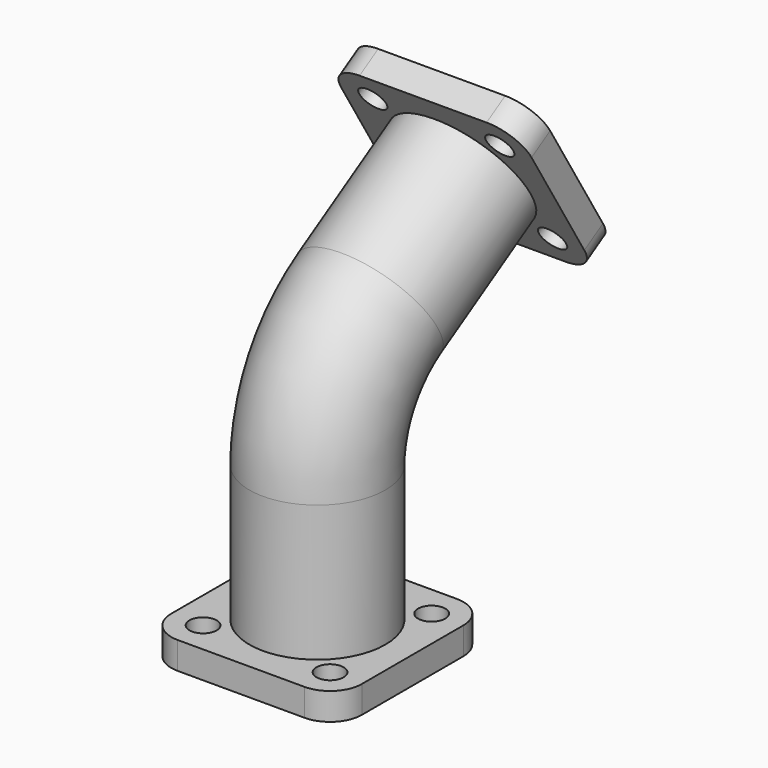
from build123d import *

# Parameters (mm, degrees)
F0_R     = 3
F0_R_2   = 12
F1_DEPTH = 6
F2_R     = 15
F2_R_2   = 12
F5_R     = 3
F5_R_2   = 12
F6_DEPTH = 6


with BuildPart() as f1:
    # F0 (on Top) → F1 (new body)
    with BuildSketch(Plane.XY):
        with BuildLine():
            Line((-14, -21), (14, -21))
            ThreePointArc((14, -21), (18.9497474683, -18.9497474683), (21, -14))
            Line((21, -14), (21, 14))
            ThreePointArc((21, 14), (18.9497474683, 18.9497474683), (14, 21))
            Line((14, 21), (-14, 21))
            ThreePointArc((-14, 21), (-18.9497474683, 18.9497474683), (-21, 14))
            Line((-21, 14), (-21, -14))
            ThreePointArc((-21, -14), (-18.9497474683, -18.9497474683), (-14, -21))
        make_face()
        with Locations((-14, -14)):
            Circle(F0_R, mode=Mode.SUBTRACT)
        with Locations((14, -14)):
            Circle(F0_R, mode=Mode.SUBTRACT)
        with Locations((-14, 14)):
            Circle(F0_R, mode=Mode.SUBTRACT)
        Circle(F0_R_2, mode=Mode.SUBTRACT)
        with Locations((14, 14)):
            Circle(F0_R, mode=Mode.SUBTRACT)
    extrude(amount=F1_DEPTH)

    # F4: sweep along a path in F3
    with BuildLine(Plane.YZ) as f4_path:
        Line((0, 6), (0, 36))
        ThreePointArc((0, 36), (3.8507080753, 50.7042351666), (14.4143021224, 61.6336891935))
        Line((14.4143021224, 61.6336891935), (40.0479913159, 77.2193870711))
    # F2 (on face) → F4 (sweep)
    with BuildSketch(Plane.XY.offset(6)):
        Circle(F2_R)
        Circle(F2_R_2, mode=Mode.SUBTRACT)
    sweep(path=f4_path.line)

    # F5 (on face) → F6 (join)
    with BuildSketch(Plane(origin=(0, 63.5173139927, 38.6195548528), x_dir=(-1, 0, 0), z_dir=(0, 0.8544563064, 0.5195232626))):
        with BuildLine():
            Line((-14, 24.1747291546), (14, 24.1747291546))
            ThreePointArc((14, 24.1747291546), (18.9497474683, 26.2249816863), (21, 31.1747291546))
            Line((21, 31.1747291546), (21, 59.1747291546))
            ThreePointArc((21, 59.1747291546), (18.9497474683, 64.1244766229), (14, 66.1747291546))
            Line((14, 66.1747291546), (-14, 66.1747291546))
            ThreePointArc((-14, 66.1747291546), (-18.9497474683, 64.1244766229), (-21, 59.1747291546))
            Line((-21, 59.1747291546), (-21, 31.1747291546))
            ThreePointArc((-21, 31.1747291546), (-18.9497474683, 26.2249816863), (-14, 24.1747291546))
        make_face()
        with Locations((-14, 31.1747291546)):
            Circle(F5_R, mode=Mode.SUBTRACT)
        with Locations((14, 31.1747291546)):
            Circle(F5_R, mode=Mode.SUBTRACT)
        with Locations((0, 45.1747291546)):
            Circle(F5_R_2, mode=Mode.SUBTRACT)
        with Locations((-14, 59.1747291546)):
            Circle(F5_R, mode=Mode.SUBTRACT)
        with Locations((14, 59.1747291546)):
            Circle(F5_R, mode=Mode.SUBTRACT)
    extrude(amount=F6_DEPTH)


solid = f1.part
